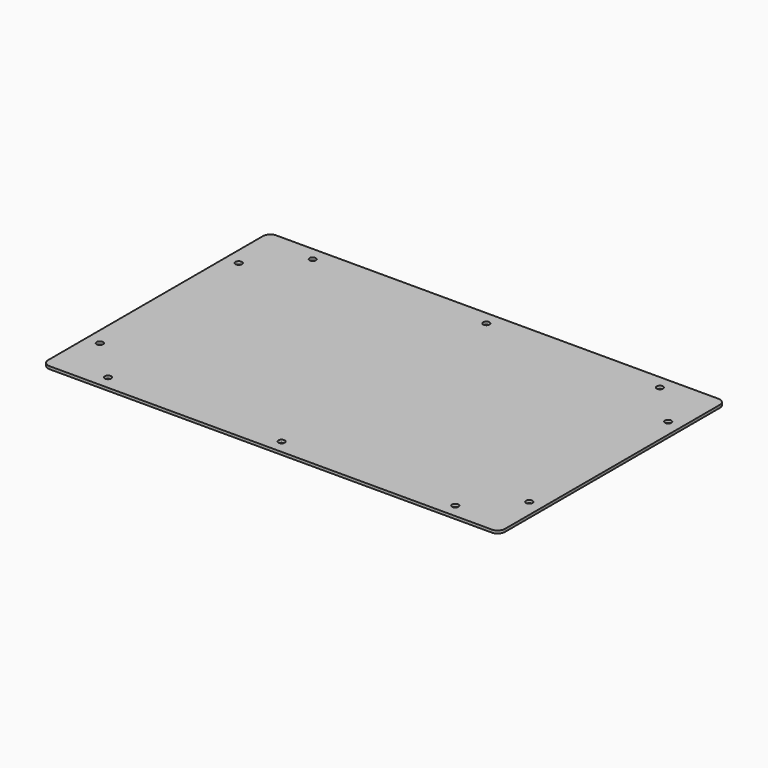
from build123d import *

# Parameters (mm, degrees)
F0_R     = 1.75
F1_DEPTH = 1.5


with BuildPart() as f1:
    # F0 (on Top) → F1 (new body)
    with BuildSketch(Plane.XY):
        with BuildLine():
            Line((121, 77.5), (-121, 77.5))
            ThreePointArc((-121, 77.5), (-123.828427, 76.328427), (-125, 73.5))
            Line((-125, 73.5), (-125, -73.5))
            ThreePointArc((-125, -73.5), (-123.828427, -76.328427), (-121, -77.5))
            Line((-121, -77.5), (121, -77.5))
            ThreePointArc((121, -77.5), (123.828427, -76.328427), (125, -73.5))
            Line((125, -73.5), (125, 73.5))
            ThreePointArc((125, 73.5), (123.828427, 76.328427), (121, 77.5))
        make_face()
        with Locations((-95, -70)):
            Circle(F0_R, mode=Mode.SUBTRACT)
        with Locations((-117.5, -47.5)):
            Circle(F0_R, mode=Mode.SUBTRACT)
        with Locations((0, -70)):
            Circle(F0_R, mode=Mode.SUBTRACT)
        with Locations((95, -70)):
            Circle(F0_R, mode=Mode.SUBTRACT)
        with Locations((117.5, -47.5)):
            Circle(F0_R, mode=Mode.SUBTRACT)
        with Locations((-117.5, 47.5)):
            Circle(F0_R, mode=Mode.SUBTRACT)
        with Locations((-95, 70)):
            Circle(F0_R, mode=Mode.SUBTRACT)
        with Locations((0, 70)):
            Circle(F0_R, mode=Mode.SUBTRACT)
        with Locations((117.5, 47.5)):
            Circle(F0_R, mode=Mode.SUBTRACT)
        with Locations((95, 70)):
            Circle(F0_R, mode=Mode.SUBTRACT)
    extrude(amount=F1_DEPTH)


solid = f1.part
